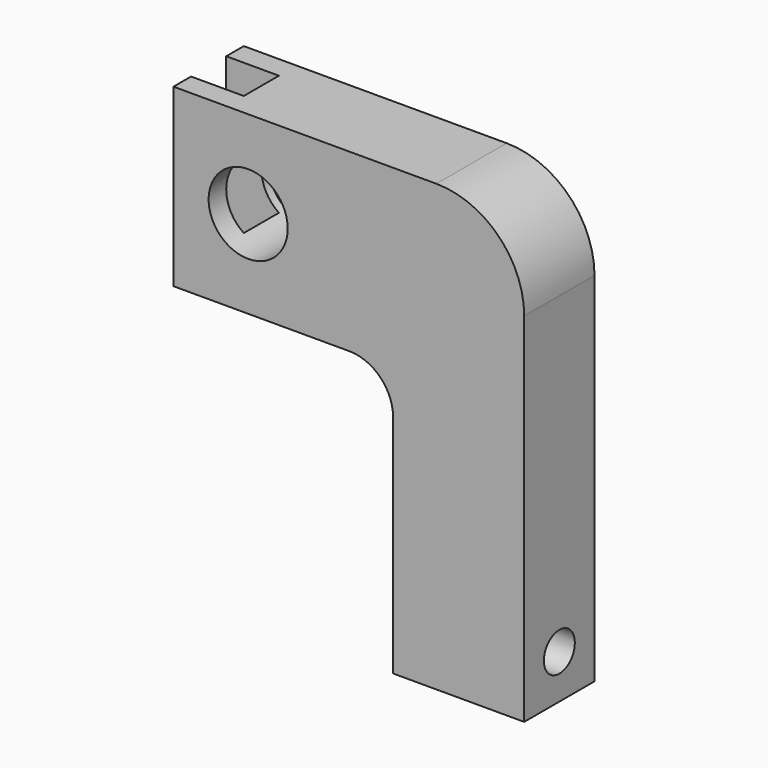
from build123d import *

# Parameters (mm, degrees)
F1_DEPTH  = 20
F2_R      = 10
F3_R      = 20
F5_D      = 8.8
F6_W      = 10
F6_H      = 40
F7_DEPTH  = 12
F8_R      = 9
F9_DEPTH  = 17
F11_D     = 3.3
F11_DEPTH = 10
F11_TIP   = 0.9914200214


with BuildPart() as f1:
    # F0 (on Front) → F1 (new body)
    with BuildSketch(Plane.XZ):
        Polygon((39.4714460536, 44.5363200395), (-40.3757039464, 44.5363200395), (-40.3757039464, 4.5363200395), (9.6242960536, 4.5363200395), (9.6242960536, -56.8236818447), (39.4714460536, -56.8236818447), align=None)
    extrude(amount=F1_DEPTH)

    # F2
    f2_edges = [f1.edges().sort_by_distance(p)[0] for p in [
        (9.624296, -10, 4.53632),
    ]]
    fillet(f2_edges, radius=F2_R)

    # F3
    f3_edges = [f1.edges().sort_by_distance(p)[0] for p in [
        (39.471446, -10, 44.53632),
    ]]
    fillet(f3_edges, radius=F3_R)

    # F5 (through all)
    with Locations(Plane.YZ.offset(39.4714460536)):
        with Locations((-10, -46.8236818447)):
            Hole(F5_D / 2)

    # F6 (on face) → F7 (cut)
    with BuildSketch(Plane(origin=(-40.3757039464, 0, 0), x_dir=(0, -1, 0), z_dir=(-1, 0, 0))):
        with Locations((10, 24.5363200395)):
            Rectangle(F6_W, F6_H)
    extrude(amount=-F7_DEPTH, mode=Mode.SUBTRACT)

    # F8 (on face) → F9 (cut)
    with BuildSketch(Plane.XZ.offset(20)):
        with Locations((-23.3757039464, 24.5363200395)):
            Circle(F8_R)
    extrude(amount=-F9_DEPTH, mode=Mode.SUBTRACT)

    # F11
    with Locations(Plane(origin=(-40.3757039464, 0, 0), x_dir=(0, -1, 0), z_dir=(-1, 0, 0))):
        with Locations((2.5, 39.5363200395), (17.5, 39.5363200395), (17.5, 9.5363200395), (2.5, 9.5363200395)):
            Hole(F11_D / 2, depth=F11_DEPTH)
            with Locations((0, 0, -(F11_DEPTH + F11_TIP / 2))):  # 118° drill point
                Cone(0, F11_D / 2, F11_TIP, mode=Mode.SUBTRACT)


solid = f1.part
